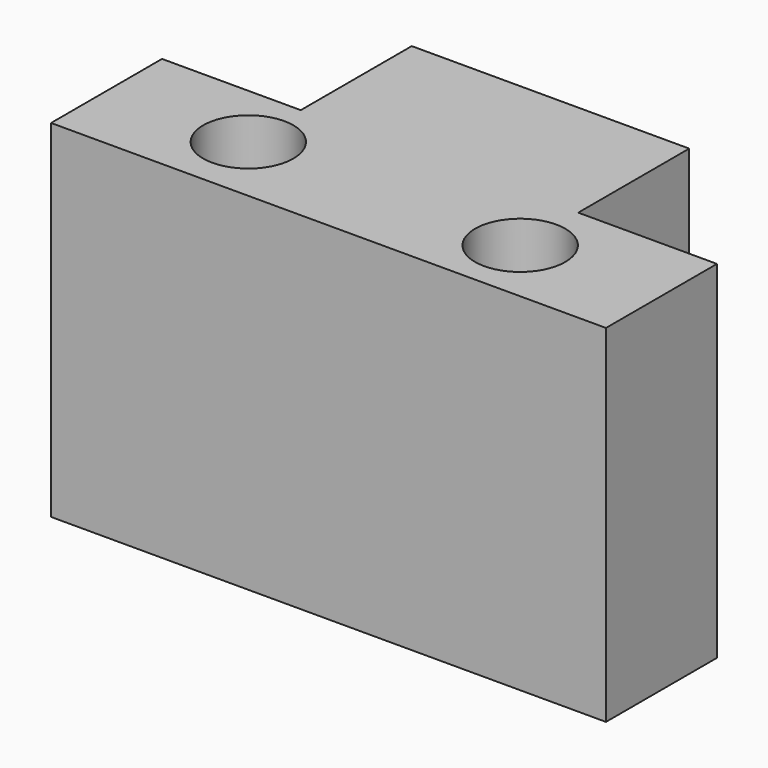
from build123d import *

# Parameters (mm, degrees)
F0_R     = 3.25
F1_DEPTH = 25


with BuildPart() as f1:
    # F0 (on Top) → F1 (new body)
    with BuildSketch(Plane.XY):
        Polygon((12.400003, 20), (-7.599997, 20), (-7.599997, 10), (2.400003, 10), (12.400003, 10), align=None)
        Polygon((22.400003, 10), (12.400003, 10), (2.400003, 10), (2.400003, 0), (22.400003, 0), align=None)
        with Locations((12.337953, 4.847295)):
            Circle(F0_R, mode=Mode.SUBTRACT)
        Polygon((2.400003, 10), (-7.599997, 10), (-17.599997, 10), (-17.599997, 0), (2.400003, 0), align=None)
        with Locations((-7.485571, 5.130046)):
            Circle(F0_R, mode=Mode.SUBTRACT)
    extrude(amount=F1_DEPTH)


solid = f1.part
